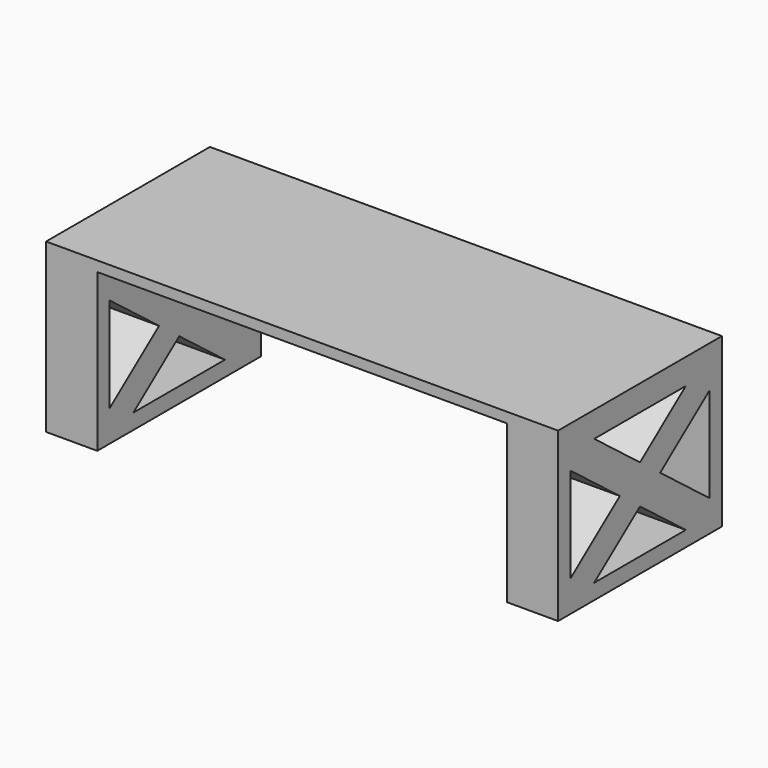
from build123d import *

# Parameters (mm, degrees)
F0_W     = 1270
F0_H     = 508
F1_DEPTH = 25.4
F2_W     = 127
F2_H     = 508
F3_DEPTH = 390.525
F5_DEPTH = 1270.001


with BuildPart() as f1:
    # F0 (on Top) → F1 (new body)
    with BuildSketch(Plane.XY):
        Rectangle(F0_W, F0_H)
    extrude(amount=F1_DEPTH)

    # F2 (on face) → F3 (join)
    with BuildSketch(Plane(origin=(0, 0, 0), x_dir=(1, 0, 0), z_dir=(0, 0, -1))):
        with Locations((-571.5, 0)):
            Rectangle(F2_W, F2_H)
        with Locations((571.5, 0)):
            Rectangle(F2_W, F2_H)
    extrude(amount=F3_DEPTH)

    # F4 (on face) → F5 (cut, through all)
    with BuildSketch(Plane.YZ.offset(635)):
        Polygon((0, -243.319523), (-141.925823, -352.425), (141.925823, -352.425), align=None)
        Polygon((215.9, -77.346398), (62.513201, -195.2625), (215.9, -313.178602), align=None)
        Polygon((0, -147.205477), (141.925823, -38.1), (-141.925823, -38.1), align=None)
        Polygon((-215.9, -313.178602), (-62.513201, -195.2625), (-215.9, -77.346398), align=None)
    extrude(amount=-F5_DEPTH, mode=Mode.SUBTRACT)


solid = f1.part
